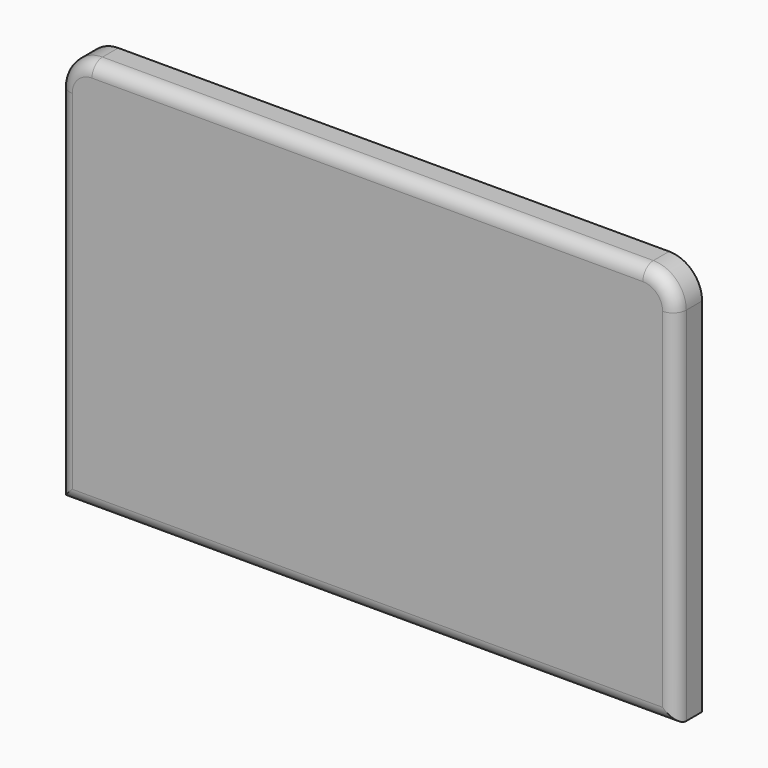
from build123d import *

# Parameters (mm, degrees)
F1_DEPTH = 12.7
F2_R     = 5.08


with BuildPart() as f1:
    # F0 (on Front) → F1 (new body)
    with BuildSketch(Plane.XZ):
        with BuildLine():
            Line((-119.0625, 63.5), (-119.0625, -76.2))
            Line((-119.0625, -76.2), (119.0625, -76.2))
            Line((119.0625, -76.2), (119.0625, 63.5))
            ThreePointArc((119.0625, 63.5), (115.342756, 72.480256), (106.3625, 76.2))
            Line((106.3625, 76.2), (-106.3625, 76.2))
            ThreePointArc((-106.3625, 76.2), (-115.342756, 72.480256), (-119.0625, 63.5))
        make_face()
    extrude(amount=F1_DEPTH)

    # F2
    f2_edges = [f1.edges().sort_by_distance(p)[0] for p in [
        (-119.0625, -12.7, -6.35),
        (0, -12.7, -76.2),
        (119.0625, -12.7, -6.35),
        (115.342756, -12.7, 72.480256),
        (0, -12.7, 76.2),
        (-115.342756, -12.7, 72.480256),
    ]]
    fillet(f2_edges, radius=F2_R)


solid = f1.part
